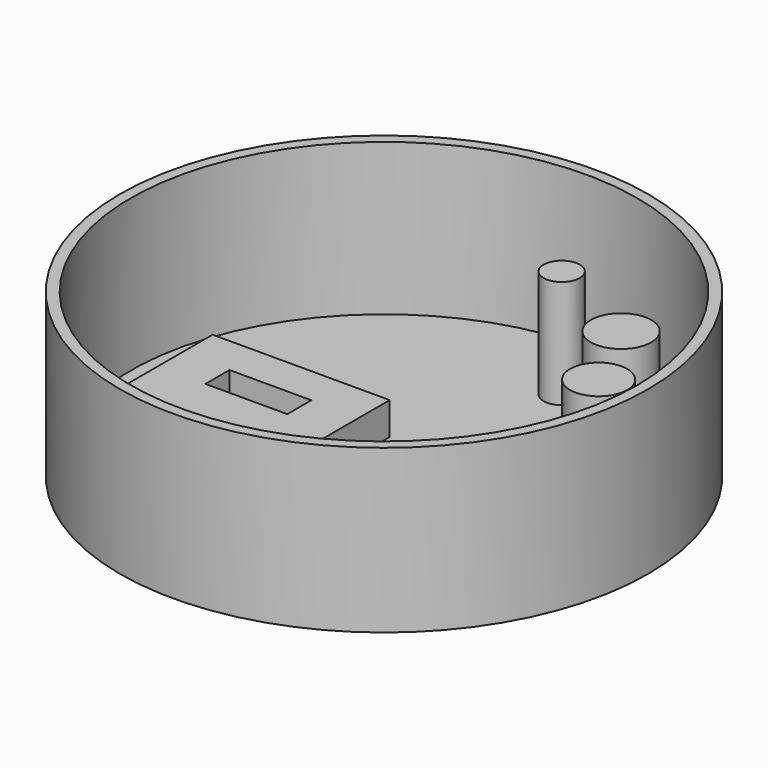
from build123d import *

# Parameters (mm, degrees)
F0_R     = 121.822916
F1_DEPTH = 75
F2_T     = -5
F3_R     = 8.352587
F3_R_2   = 13.960052
F3_R_3   = 13.177503
F3_R_4   = 5.384974
F3_R_5   = 6.304301
F3_R_6   = 5.548783
F4_DEPTH = 50
F5_W     = 81.67348
F5_H     = 87.06702
F5_W_2   = 37.754722
F5_H_2   = 11.557571
F5_H_3   = 13.869084
F6_DEPTH = 15


with BuildPart() as f1:
    # F0 (on Top) → F1 (new body)
    with BuildSketch(Plane.XY):
        Circle(F0_R)
    extrude(amount=F1_DEPTH)

    # F2
    f2_openings = [f1.faces().sort_by_distance(p)[0] for p in [
        (0, 0, 75),
    ]]
    offset(amount=F2_T, openings=f2_openings)

    # F3 (on face) → F4 (join)
    with BuildSketch(Plane.XY.offset(5)):
        with Locations((16.062267, 82.355626)):
            Circle(F3_R)
        with Locations((61.912745, 59.28437)):
            Circle(F3_R_2)
        with Locations((79.143174, 24.823505)):
            Circle(F3_R_3)
        with Locations((19.566761, -100.462183)):
            Circle(F3_R_4)
        with Locations((0, -99.878103)):
            Circle(F3_R_5)
        with Locations((-19.858804, -99.586062)):
            Circle(F3_R_6)
    extrude(amount=F4_DEPTH)

    # F5 (on face) → F6 (join)
    with BuildSketch(Plane.XY.offset(5)):
        with Locations((-52.394312, -25.811905)):
            Rectangle(F5_W, F5_H)
        with Locations((-52.394312, -43.918762)):
            Rectangle(F5_W_2, F5_H_2, mode=Mode.SUBTRACT)
        with Locations((-52.394312, -6.934542)):
            Rectangle(F5_W_2, F5_H_3, mode=Mode.SUBTRACT)
    extrude(amount=F6_DEPTH)


solid = f1.part
